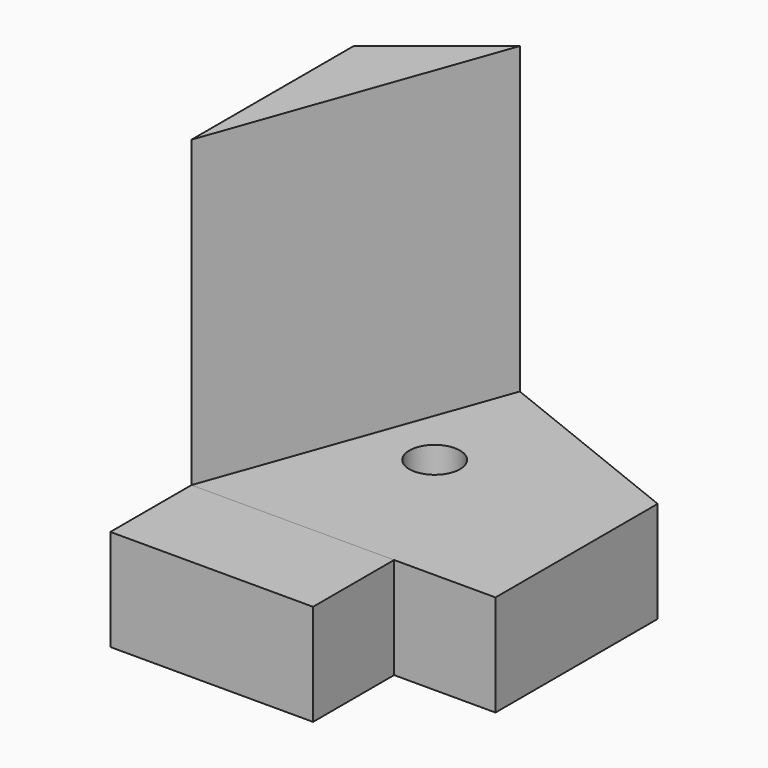
from build123d import *

# Parameters (mm, degrees)
F0_W     = 76.2
F0_H     = 50.8
F1_DEPTH = 25.4
F2_W     = 50.8
F2_H     = 25.4
F3_DEPTH = 25.4
F5_DEPTH = 76.2
F6_R     = 6.35
F7_DEPTH = 25.401


with BuildPart() as f1:
    # F0 (on Top) → F1 (new body)
    with BuildSketch(Plane.XY):
        with Locations((38.1, 25.4)):
            Rectangle(F0_W, F0_H)
        Polygon((25.4, 71.12), (0, 50.8), (76.2, 50.8), align=None)
    extrude(amount=F1_DEPTH)

    # F6 (on face) → F7 (cut, through all)
    with BuildSketch(Plane.XY.offset(25.4)):
        with Locations((30.48, 38.1)):
            Circle(F6_R)
    extrude(amount=-F7_DEPTH, mode=Mode.SUBTRACT)


with BuildPart() as f3:
    # F2 (on face) → F3 (new body)
    with BuildSketch(Plane.XZ):
        with Locations((25.4, 12.7)):
            Rectangle(F2_W, F2_H)
    extrude(amount=F3_DEPTH)


with BuildPart() as f5:
    # F4 (on face) → F5 (new body)
    with BuildSketch(Plane.XY.offset(25.4)):
        Polygon((0, 50.8), (0, 0), (25.4, 71.12), align=None)
    extrude(amount=F5_DEPTH)


solid = Compound([f1.part, f3.part, f5.part])
